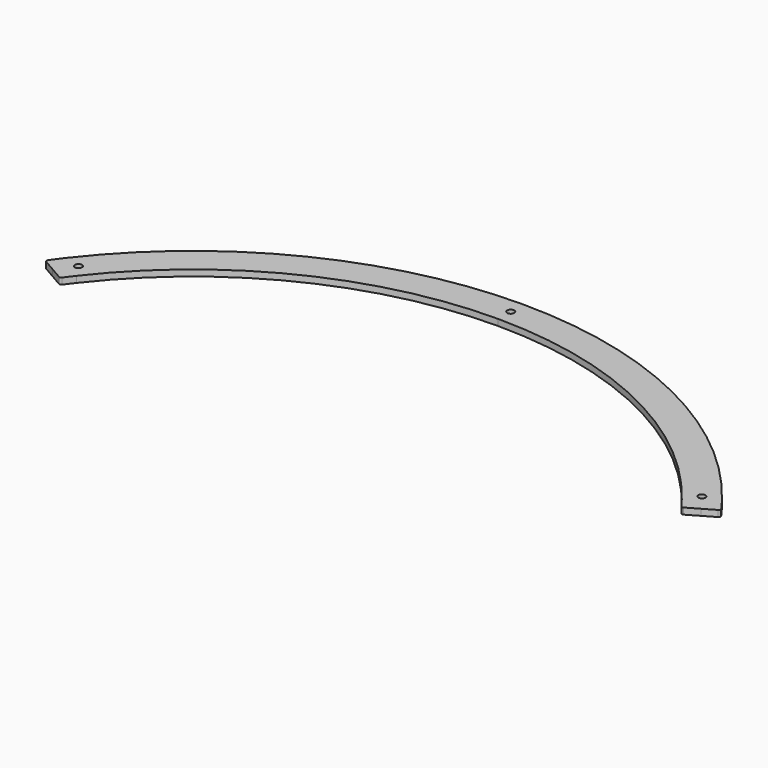
from build123d import *

# Parameters (mm, degrees)
PAD021_DEPTH                        = 3
SKETCH083_R                         = 1.7
POCKET041_DEPTH                     = 0.001
POCKET041_DEPTH_BACK                = 3.001
SKETCH084_R                         = 1.7
POCKET042_DEPTH                     = 0.001
POCKET042_DEPTH_BACK                = 3.001
BODY001003005003013_PLACEMENT_ANGLE = 60
CLONE019_PLACEMENT_ANGLE            = 60


with BuildPart() as part:
    # Sketch082 → Pad021 (new body)
    with BuildSketch(Plane.XY):
        with BuildLine():
            ThreePointArc((156.627412, 120.879551), (87.258751, 177.56667), (0, 197.848457))
            Line((0, 197.848457), (0, 182.848457))
            ThreePointArc((144.752611, 111.714995), (80.643177, 164.104346), (0, 182.848457))
            ThreePointArc((148.102078, 107.234942), (146.444477, 109.487778), (144.752611, 111.714995))
            ThreePointArc((148.102078, 107.234942), (148.703343, 106.843433), (149.41205, 106.955386))
            Line((155.154429, 110.27075), (149.41205, 106.955386))
            Line((155.154429, 110.27075), (160.726477, 113.487773))
            ThreePointArc((160.726477, 113.487773), (161.203737, 114.141753), (161.040435, 114.934722))
            ThreePointArc((161.040435, 114.934722), (158.861734, 117.927781), (156.627412, 120.879551))
        make_face()
    pad021 = extrude(amount=PAD021_DEPTH)

    # Mirrored029: Pad021 across Sketch082 V_Axis
    add(pad021.mirror(Plane(origin=(0, 0, 0), x_dir=(0, 0, 1), z_dir=(1, 0, 0))))

    # Sketch083 → Pocket041 (cut, two sides)
    with BuildSketch(Plane.XY) as pocket041_sk:
        with Locations((149.149219, 118.266841)):
            Circle(SKETCH083_R)
        with Locations((-149.149219, 118.266841)):
            Circle(SKETCH083_R)
    extrude(amount=-POCKET041_DEPTH, mode=Mode.SUBTRACT)
    extrude(pocket041_sk.sketch, amount=POCKET041_DEPTH_BACK, mode=Mode.SUBTRACT)

    # Sketch084 → Pocket042 (cut, two sides)
    with BuildSketch(Plane.XY) as pocket042_sk:
        with Locations((0, 190.348457)):
            Circle(SKETCH084_R)
    extrude(amount=-POCKET042_DEPTH, mode=Mode.SUBTRACT)
    extrude(pocket042_sk.sketch, amount=POCKET042_DEPTH_BACK, mode=Mode.SUBTRACT)


with BuildPart() as part_1:
    # Body001003005003013 placement: moved
    add(part.part.rotate(Axis((0, 0, 0), (0, 0, 1)), BODY001003005003013_PLACEMENT_ANGLE))


with BuildPart() as part_2:
    # Clone019 placement: moved
    add(part_1.part.moved(Location((1314, 791, 0))).rotate(Axis((1314, 791, 0), (0, 0, -1)), CLONE019_PLACEMENT_ANGLE))


solid = part_2.part
